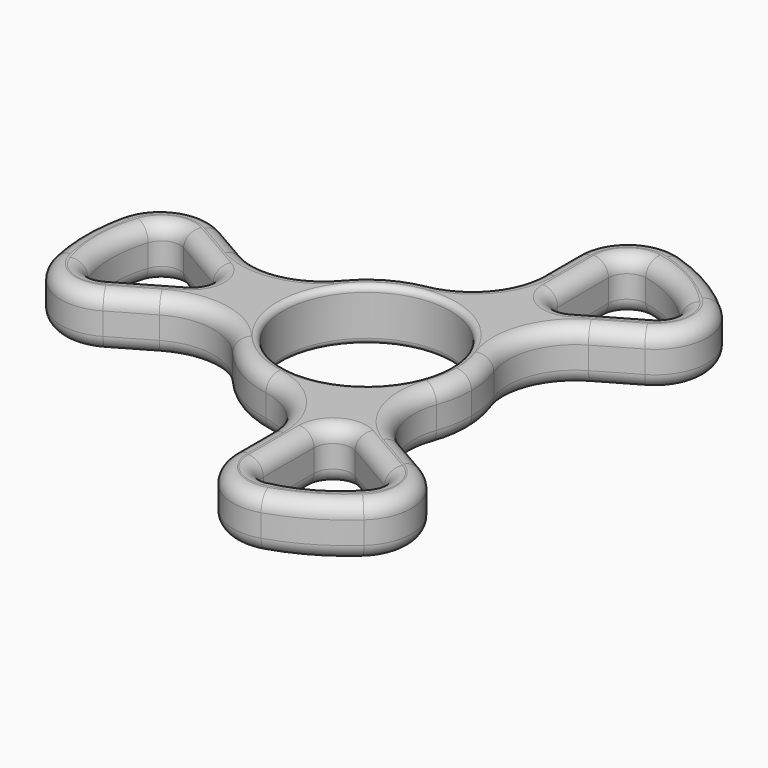
from build123d import *

# Parameters (mm, degrees)
F0_R     = 11.15
F1_DEPTH = 7
F2_R     = 9
F3_R     = 7
F4_R     = 2.5
F5_R     = 0.8
F6_R     = 2


with BuildPart() as f1:
    # F0 (on Top) → F1 (new body)
    with BuildSketch(Plane.XY):
        with BuildLine():
            Line((-34, -13.856406), (-13.824752, -2.208221))
            ThreePointArc((-13.824752, -2.208221), (-7, -12.124356), (5, -13.076697))
            Line((5, -13.076697), (5, -36.373067))
            ThreePointArc((5, -36.373067), (19.095674, -33.074678), (29, -22.51666))
            Line((29, -22.51666), (8.824752, -10.868475))
            ThreePointArc((8.824752, -10.868475), (12.640145, -6.018865), (14, 0))
            ThreePointArc((14, 0), (12.640145, 6.018865), (8.824752, 10.868475))
            Line((8.824752, 10.868475), (29, 22.51666))
            ThreePointArc((29, 22.51666), (19.095674, 33.074678), (5, 36.373067))
            Line((5, 36.373067), (5, 13.076697))
            ThreePointArc((5, 13.076697), (-7, 12.124356), (-13.824752, 2.208221))
            Line((-13.824752, 2.208221), (-34, 13.856406))
            ThreePointArc((-34, 13.856406), (-38.191348, 0), (-34, -13.856406))
        make_face()
        with BuildLine():
            Line((-32, 7.794229), (-18.5, 0))
            Line((-18.5, 0), (-32, -7.794229))
            ThreePointArc((-32, -7.794229), (-34.026811, 0), (-32, 7.794229))
        make_face(mode=Mode.SUBTRACT)
        with BuildLine():
            ThreePointArc((22.75, -23.815699), (17.013406, -29.468083), (9.25, -31.609927))
            Line((9.25, -31.609927), (9.25, -16.02147))
            Line((9.25, -16.02147), (22.75, -23.815699))
        make_face(mode=Mode.SUBTRACT)
        Circle(F0_R, mode=Mode.SUBTRACT)
        with BuildLine():
            ThreePointArc((9.25, 31.609927), (17.013406, 29.468083), (22.75, 23.815699))
            Line((22.75, 23.815699), (9.25, 16.02147))
            Line((9.25, 16.02147), (9.25, 31.609927))
        make_face(mode=Mode.SUBTRACT)
    extrude(amount=F1_DEPTH)

    # F2
    f2_edges = [f1.edges().sort_by_distance(p)[0] for p in [
        (-13.824752, -2.208221, 3.5),
        (5, -13.076697, 3.5),
        (8.824752, -10.868475, 3.5),
        (8.824752, 10.868475, 3.5),
        (5, 13.076697, 3.5),
        (-13.824752, 2.208221, 3.5),
    ]]
    fillet(f2_edges, radius=F2_R)

    # F3
    f3_edges = [f1.edges().sort_by_distance(p)[0] for p in [
        (29, -22.51666, 3.5),
        (29, 22.51666, 3.5),
        (5, 36.373067, 3.5),
        (-34, 13.856406, 3.5),
        (-34, -13.856406, 3.5),
        (5, -36.373067, 3.5),
    ]]
    fillet(f3_edges, radius=F3_R)

    # F4
    f4_edges = [f1.edges().sort_by_distance(p)[0] for p in [
        (-32, 7.794229, 3.5),
        (-18.5, 0, 3.5),
        (-32, -7.794229, 3.5),
        (9.25, -31.609927, 3.5),
        (9.25, -16.02147, 3.5),
        (22.75, -23.815699, 3.5),
        (9.25, 16.02147, 3.5),
        (9.25, 31.609927, 3.5),
        (22.75, 23.815699, 3.5),
    ]]
    fillet(f4_edges, radius=F4_R)

    # F5
    f5_edges = [f1.edges().sort_by_distance(p)[0] for p in [
        (11.15, 0, 3.5),
        (-11.15, 0, 0),
        (-11.15, 0, 7),
    ]]
    fillet(f5_edges, radius=F5_R)

    # F6
    f6_edges = [f1.edges().sort_by_distance(p)[0] for p in [
        (-11.95, 0, 7),
        (-25.921862, 4.285014, 7),
        (-31.733439, 6.576224, 7),
        (-21, 0, 7),
        (-34.026811, 0, 7),
        (-25.921862, -4.285014, 7),
        (-31.733439, -6.576224, 7),
        (-24.688909, -8.480646, 7),
        (-33.580436, -10.312357, 7),
        (-16.053404, -5.925373, 7),
        (-38.191348, 0, 7),
        (-7, -12.124356, 7),
        (-33.580436, 10.312357, 7),
        (2.895178, -16.865342, 7),
        (-24.688909, 8.480646, 7),
        (5, -25.621545, 7),
        (-16.053404, 5.925373, 7),
        (7.859455, -34.237689, 7),
        (-7, 12.124356, 7),
        (19.095674, -33.074678, 7),
        (2.895178, 16.865342, 7),
        (25.720981, -23.925332, 7),
        (5, 25.621545, 7),
        (19.688909, -17.1409, 7),
        (7.859455, 34.237689, 7),
        (13.158226, -10.939969, 7),
        (19.095674, 33.074678, 7),
        (14, 0, 7),
        (25.720981, 23.925332, 7),
        (13.158226, 10.939969, 7),
        (19.688909, 17.1409, 7),
        (17.013406, -29.468083, 7),
        (21.561897, -24.193852, 7),
        (10.171542, -30.770076, 7),
        (16.671862, -20.306484, 7),
        (9.25, -24.591498, 7),
        (10.5, -18.186533, 7),
        (17.013406, 29.468083, 7),
        (10.171542, 30.770076, 7),
        (21.561897, 24.193852, 7),
        (9.25, 24.591498, 7),
        (16.671862, 20.306484, 7),
        (10.5, 18.186533, 7),
        (-11.95, 0, 0),
        (-25.921862, 4.285014, 0),
        (-31.733439, 6.576224, 0),
        (-21, 0, 0),
        (-34.026811, 0, 0),
        (-25.921862, -4.285014, 0),
        (-31.733439, -6.576224, 0),
        (-24.688909, -8.480646, 0),
        (-33.580436, -10.312357, 0),
        (-16.053404, -5.925373, 0),
        (-38.191348, 0, 0),
        (-7, -12.124356, 0),
        (-33.580436, 10.312357, 0),
        (2.895178, -16.865342, 0),
        (-24.688909, 8.480646, 0),
        (5, -25.621545, 0),
        (-16.053404, 5.925373, 0),
        (7.859455, -34.237689, 0),
        (-7, 12.124356, 0),
        (19.095674, -33.074678, 0),
        (2.895178, 16.865342, 0),
        (25.720981, -23.925332, 0),
        (5, 25.621545, 0),
        (19.688909, -17.1409, 0),
        (7.859455, 34.237689, 0),
        (13.158226, -10.939969, 0),
        (19.095674, 33.074678, 0),
        (14, 0, 0),
        (25.720981, 23.925332, 0),
        (13.158226, 10.939969, 0),
        (19.688909, 17.1409, 0),
        (17.013406, -29.468083, 0),
        (21.561897, -24.193852, 0),
        (10.171542, -30.770076, 0),
        (16.671862, -20.306484, 0),
        (9.25, -24.591498, 0),
        (10.5, -18.186533, 0),
        (17.013406, 29.468083, 0),
        (10.171542, 30.770076, 0),
        (21.561897, 24.193852, 0),
        (9.25, 24.591498, 0),
        (16.671862, 20.306484, 0),
        (10.5, 18.186533, 0),
    ]]
    fillet(f6_edges, radius=F6_R)


solid = f1.part
